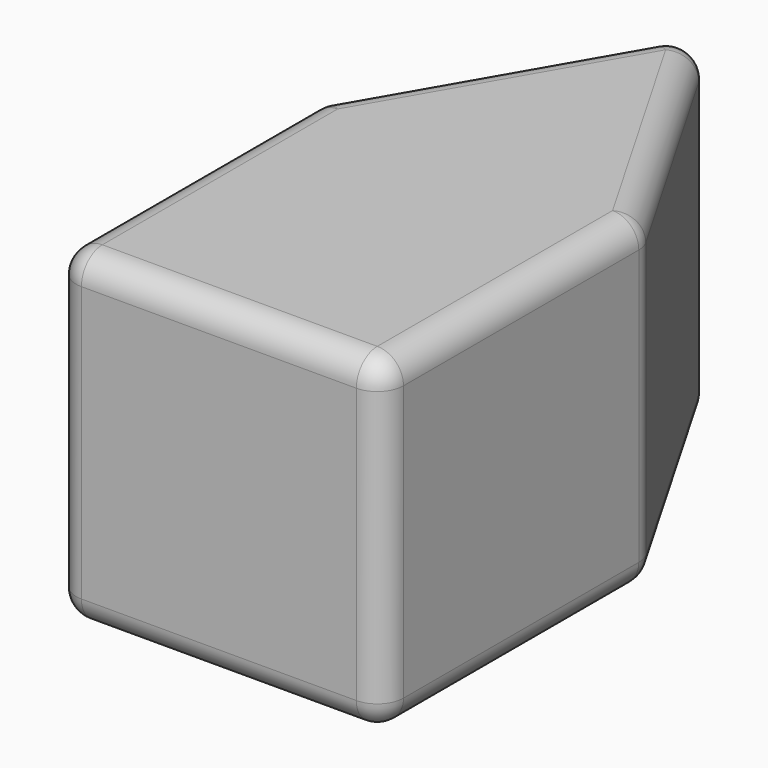
from build123d import *

# Parameters (mm, degrees)
F1_DEPTH = 63.5
F2_R     = 5.08


with BuildPart() as f1:
    # F0 (on Top) → F1 (new body)
    with BuildSketch(Plane.XY):
        Polygon((0, 63.5), (0, 0), (63.5, 0), (63.5, 63.5), (31.75, 118.492613), align=None)
    extrude(amount=F1_DEPTH)

    # F2
    f2_edges = [f1.edges().sort_by_distance(p)[0] for p in [
        (15.875, 90.996307, 63.5),
        (0, 31.75, 63.5),
        (31.75, 0, 63.5),
        (63.5, 31.75, 63.5),
        (47.625, 90.996307, 63.5),
        (63.5, 0, 31.75),
        (63.5, 63.5, 31.75),
        (63.5, 31.75, 0),
        (31.75, 118.492613, 31.75),
        (47.625, 90.996307, 0),
        (0, 0, 31.75),
        (31.75, 0, 0),
        (0, 63.5, 31.75),
        (0, 31.75, 0),
        (15.875, 90.996307, 0),
    ]]
    fillet(f2_edges, radius=F2_R)


solid = f1.part
